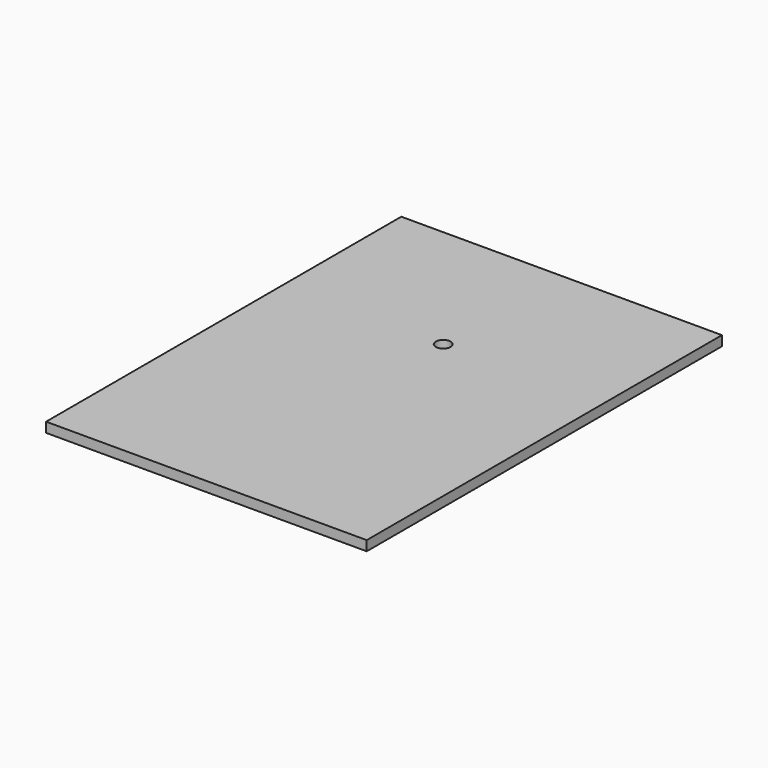
from build123d import *

# Parameters (mm, degrees)
F0_W     = 82.55
F0_H     = 114.3
F1_DEPTH = 2.54
F2_R     = 1.905
F3_DEPTH = 2.541


with BuildPart() as f1:
    # F0 (on Top) → F1 (new body)
    with BuildSketch(Plane.XY):
        Rectangle(F0_W, F0_H)
    extrude(amount=F1_DEPTH)

    # F2 (on face) → F3 (cut, through all)
    with BuildSketch(Plane.XY.offset(2.54)):
        with Locations((0, 19.05)):
            Circle(F2_R)
    extrude(amount=-F3_DEPTH, mode=Mode.SUBTRACT)


solid = f1.part
